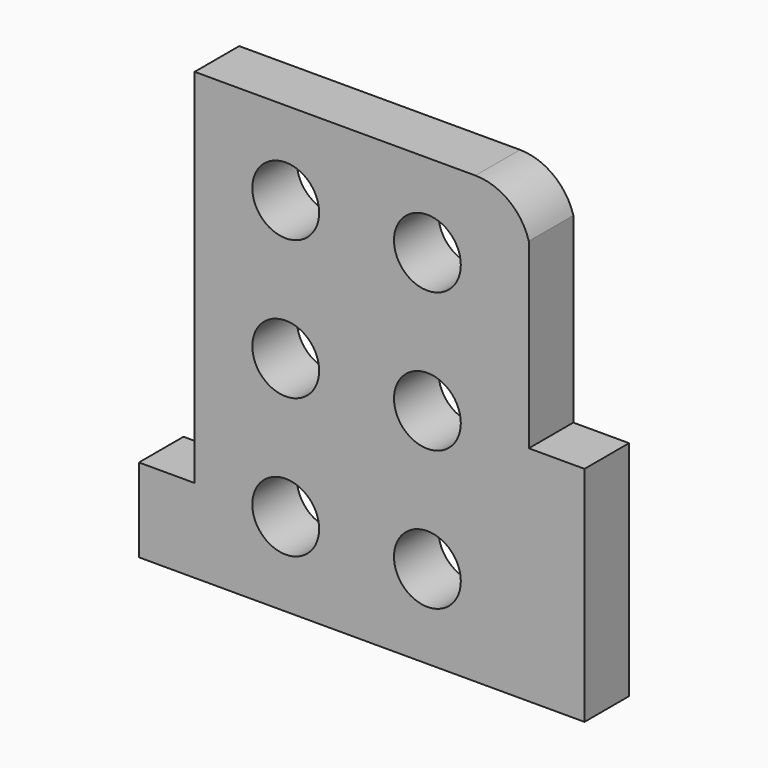
from build123d import *

# Parameters (mm, degrees)
F0_R     = 6
F1_DEPTH = 10


with BuildPart() as f1:
    # F0 (on Front) → F1 (new body)
    with BuildSketch(Plane.XZ):
        with BuildLine():
            Line((60.421064, 80), (10, 80))
            Line((10, 80), (10, 15))
            Line((10, 15), (0, 15))
            Line((0, 15), (0, 0))
            Line((0, 0), (80, 0))
            Line((80, 0), (80, 40))
            Line((80, 40), (70, 40))
            Line((70, 40), (70, 72.740458))
            ThreePointArc((70, 72.740458), (66.422855, 77.969884), (60.421064, 80))
        make_face()
        with Locations((26.353621, 15)):
            Circle(F0_R, mode=Mode.SUBTRACT)
        with Locations((51.791617, 15)):
            Circle(F0_R, mode=Mode.SUBTRACT)
        with Locations((26.353621, 40)):
            Circle(F0_R, mode=Mode.SUBTRACT)
        with Locations((26.353621, 65)):
            Circle(F0_R, mode=Mode.SUBTRACT)
        with Locations((51.791617, 40)):
            Circle(F0_R, mode=Mode.SUBTRACT)
        with Locations((51.791617, 65)):
            Circle(F0_R, mode=Mode.SUBTRACT)
    extrude(amount=F1_DEPTH)


solid = f1.part
